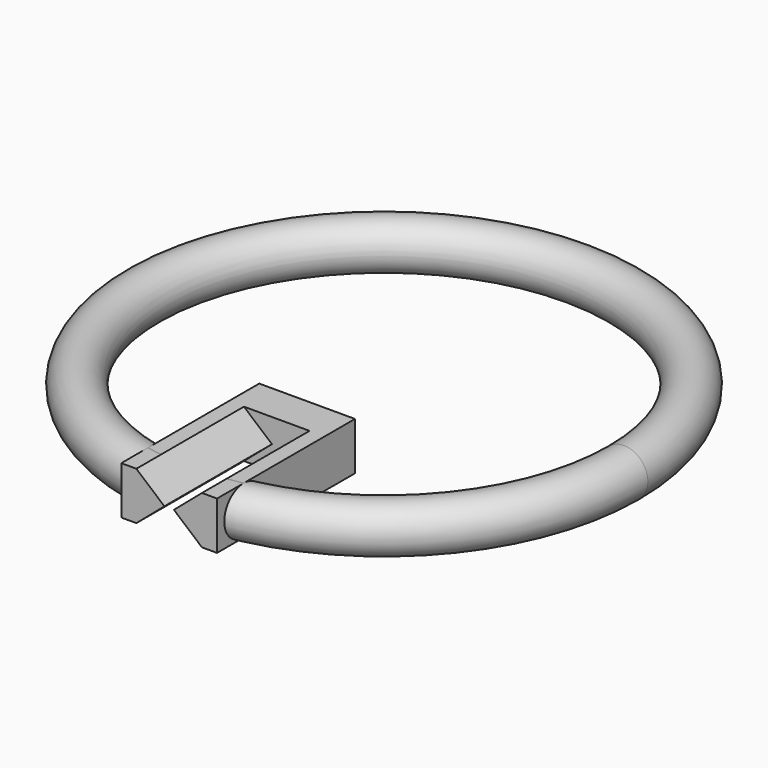
from build123d import *

# Parameters (mm, degrees)
F1_R          = 2.0001698285
F4_DEPTH      = 2
F4_DEPTH_BACK = 2
F6_START      = 11.2
F6_DEPTH      = 25.6


with BuildPart() as f2:
    # F2: sweep along a path in F0
    with BuildLine(Plane.XY) as f2_path:
        CenterArc((0, 0), 18, 0, 360)
    # F1 (on Front) → F2 (sweep)
    with BuildSketch(Plane.XZ):
        with Locations((-20.043771714, 0)):
            Circle(F1_R)
    sweep(path=f2_path.line)

    # F3 (on Top) → F4 (join, two sides)
    with BuildSketch(Plane.XY) as f4_sk:
        Polygon((4, -8.0302771777), (0, -8.0302771777), (-4, -8.0302771777), (-4, -19.9341345578), (-4, -22.4341345578), (4, -22.4341345578), (4, -19.9341345578), align=None)
    extrude(amount=F4_DEPTH)
    extrude(f4_sk.sketch, amount=-F4_DEPTH_BACK)

    # F5 (on Front) → F6 (cut)
    with BuildSketch(Plane.XZ.offset(F6_START)):
        Polygon((-2.7534713777, -2.0129208903), (2.7534713777, -2.0129208903), (0.4, 0), (0, 0), (-0.4, 0), align=None)
        Polygon((0, 0), (0.4, 0), (2.7534713777, 2.0129208903), (-2.7534713777, 2.0129208903), (-0.4, 0), align=None)
    extrude(amount=F6_DEPTH, mode=Mode.SUBTRACT)


solid = f2.part
